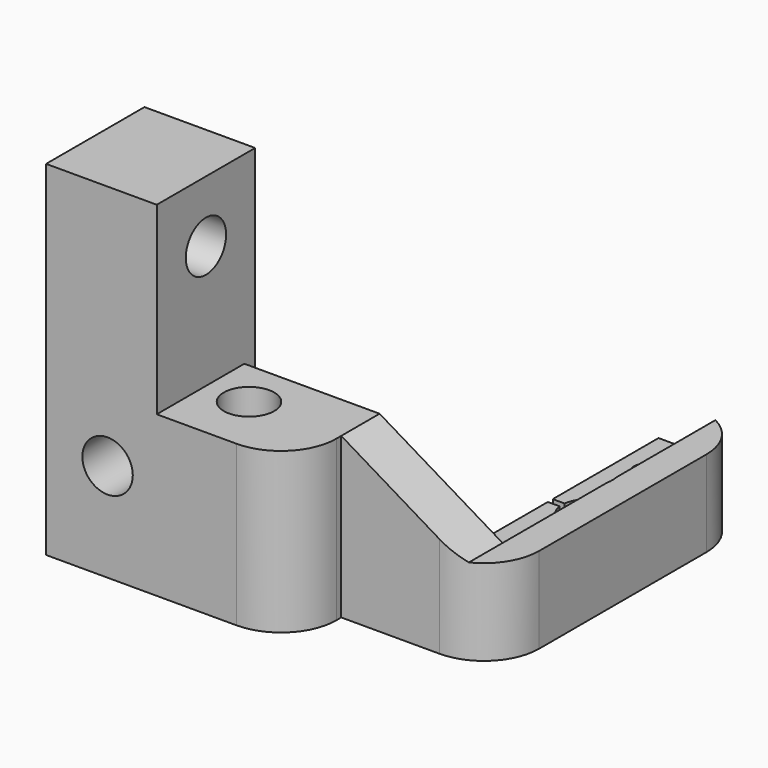
from build123d import *

# Parameters (mm, degrees)
PAD_DEPTH       = 56
SKETCH001_W     = 42
SKETCH001_H     = 48.2
POCKET_DEPTH    = 44.2
SKETCH002_R     = 1.6
SKETCH002_R_2   = 4.1
POCKET001_DEPTH = 56.001
SKETCH003_R     = 4.1
POCKET002_DEPTH = 20.001
SKETCH004_W     = 5
SKETCH004_H     = 42
POCKET003_DEPTH = 62.001
POCKET004_DEPTH = 62.001
SKETCH006_R     = 4.1
POCKET005_DEPTH = 65.001
FILLET_R        = 9


with BuildPart() as part:
    # Sketch → Pad (new body)
    with BuildSketch(Plane(origin=(0, 0, 0), x_dir=(1, 0, 0), z_dir=(0, 0, -1))):
        Polygon((28, -22), (75, -22), (75, 30), (50, 30), (50, 40), (10, 40), (10, 20), (28, 20), align=None)
    extrude(amount=PAD_DEPTH)

    # Sketch001 → Pocket (cut)
    with BuildSketch(Plane(origin=(0, 22, 0), x_dir=(1, 0, 0), z_dir=(0, 1, 0))):
        with Locations((49, 24.1)):
            Rectangle(SKETCH001_W, SKETCH001_H)
    extrude(amount=-POCKET_DEPTH, mode=Mode.SUBTRACT)

    # Sketch002 → Pocket001 (cut, through all)
    with BuildSketch(Plane(origin=(0, 0, -56), x_dir=(1, 0, 0), z_dir=(0, 0, -1))):
        with Locations((32, 17)):
            Circle(SKETCH002_R)
        with Locations((63, 17)):
            Circle(SKETCH002_R)
        with Locations((64, -14)):
            Circle(SKETCH002_R)
        with Locations((35, 30)):
            Circle(SKETCH002_R_2)
        with BuildLine():
            ThreePointArc((61.930602, -0.5), (70.1, 0), (61.930602, 0.5))
            Line((61.930602, 0.5), (60, 0.5))
            Line((60, 13), (60, 0.5))
            Line((28, 13), (60, 13))
            Line((28, -22), (28, 13))
            Line((60, -22), (28, -22))
            Line((60, -22), (60, -0.5))
            Line((61.930602, -0.5), (60, -0.5))
        make_face()
    extrude(amount=-POCKET001_DEPTH, mode=Mode.SUBTRACT)

    # Sketch003 → Pocket002 (cut, through all)
    with BuildSketch(Plane(origin=(0, -20, 0), x_dir=(1, 0, 0), z_dir=(0, 1, 0))):
        with Locations((20, 40)):
            Circle(SKETCH003_R)
    extrude(amount=-POCKET002_DEPTH, mode=Mode.SUBTRACT)

    # Sketch004 → Pocket003 (cut, through all)
    with BuildSketch(Plane(origin=(0, 22, 0), x_dir=(1, 0, 0), z_dir=(0, 1, 0))):
        with Locations((72.5, 21)):
            Rectangle(SKETCH004_W, SKETCH004_H)
    extrude(amount=-POCKET003_DEPTH, mode=Mode.SUBTRACT)

    # Sketch005 → Pocket004 (cut, through all)
    with BuildSketch(Plane(origin=(0, -40, 0), x_dir=(-1, 0, 0), z_dir=(0, -1, 0))):
        Polygon((-28, 0), (-28, 30), (-50, 30), (-70, 42), (-70, 0), align=None)
    extrude(amount=-POCKET004_DEPTH, mode=Mode.SUBTRACT)

    # Sketch006 → Pocket005 (cut, through all)
    with BuildSketch(Plane(origin=(10, 0, 0), x_dir=(0, 1, 0), z_dir=(-1, 0, 0))):
        with Locations((-30, 10)):
            Circle(SKETCH006_R)
    extrude(amount=-POCKET005_DEPTH, mode=Mode.SUBTRACT)

    # Fillet
    fillet_edges = [part.edges().sort_by_distance(p)[0] for p in [
        (75, -30, -49),
        (50, -40, -43),
        (75, 22, -49),
    ]]
    fillet(fillet_edges, radius=FILLET_R)


solid = part.part
